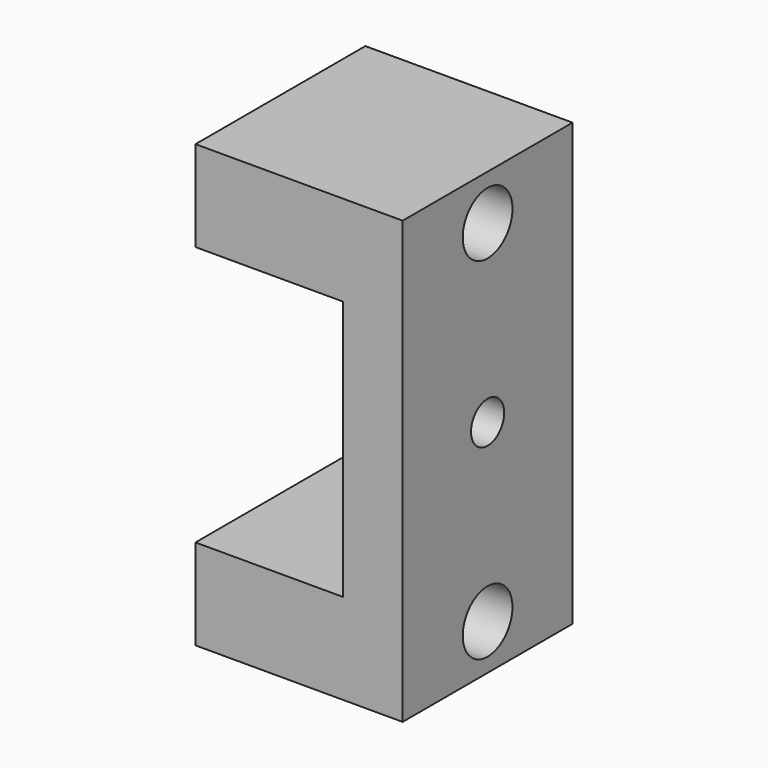
from build123d import *

# Parameters (mm, degrees)
F1_DEPTH = 41
F3_D     = 12
F5_D     = 12
F7_D     = 8


with BuildPart() as f1:
    # F0 (on Front) → F1 (new body)
    with BuildSketch(Plane.XZ):
        Polygon((-22.088847, 37.038844), (-62.088847, 37.038844), (-62.088847, 19.538844), (-33.588847, 19.538844), (-33.588847, -30.661156), (-62.088847, -30.661156), (-62.088847, -48.161156), (-22.088847, -48.161156), align=None)
    extrude(amount=F1_DEPTH)

    # F3 (through all)
    with Locations(Plane(origin=(-62.088847, 0, 0), x_dir=(0, -1, 0), z_dir=(-1, 0, 0))):
        with Locations((20.5, 28.288844)):
            Hole(F3_D / 2)

    # F5 (through all)
    with Locations(Plane(origin=(-62.088847, 0, 0), x_dir=(0, -1, 0), z_dir=(-1, 0, 0))):
        with Locations((20.5, -39.411156)):
            Hole(F5_D / 2)

    # F7 (through all)
    with Locations(Plane.YZ.offset(-22.088847)):
        with Locations((-20.5, -5.561156)):
            Hole(F7_D / 2)


solid = f1.part
